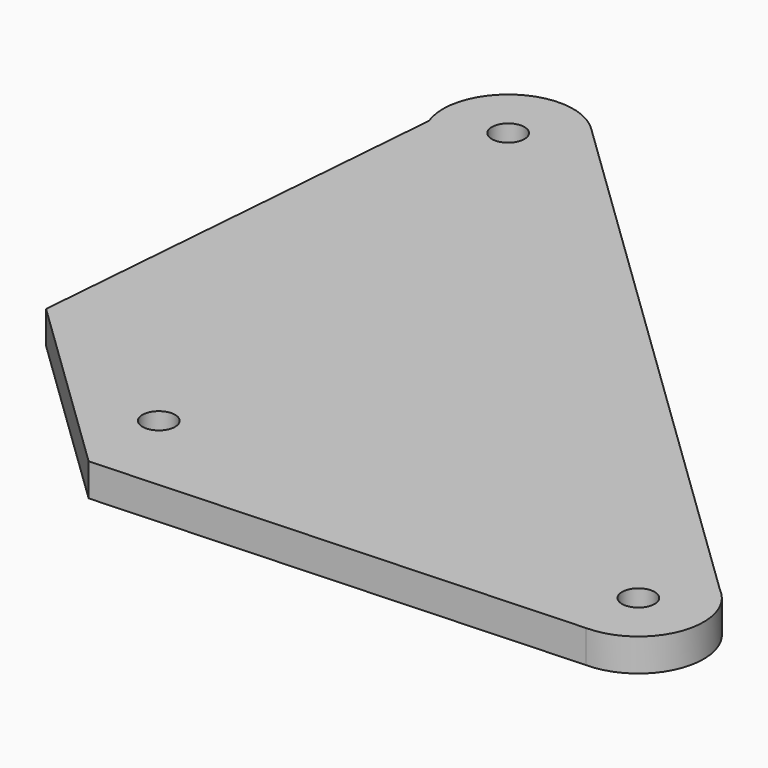
from build123d import *

# Parameters (mm, degrees)
F0_R     = 5
F1_DEPTH = 10


with BuildPart() as f1:
    # F0 (on Top) → F1 (new body)
    with BuildSketch(Plane.XY):
        with BuildLine():
            Line((159.43381, 15.66526), (-13.99655, 183.09931))
            ThreePointArc((-13.99655, 183.09931), (-38.831476, 185.45084), (-46.64062, 161.758636))
            Line((-46.64062, 161.758636), (-57.301475, 28.431364))
            Line((-57.301475, 28.431364), (0, -26.888927))
            Line((0, -26.888927), (147, -20))
            ThreePointArc((147, -20), (165.885248, -6.583875), (159.43381, 15.66526))
        make_face()
        Circle(F0_R, mode=Mode.SUBTRACT)
        with Locations((147, 0)):
            Circle(F0_R, mode=Mode.SUBTRACT)
        with Locations((-27.887755, 168.710619)):
            Circle(F0_R, mode=Mode.SUBTRACT)
    extrude(amount=F1_DEPTH)


solid = f1.part
